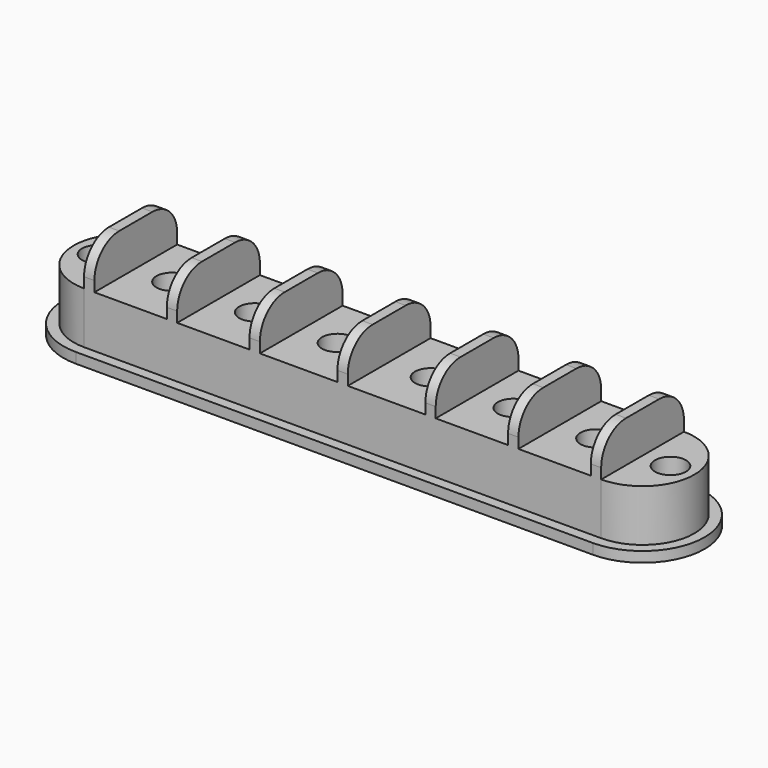
from build123d import *

# Parameters (mm, degrees)
F0_R     = 1.5
F0_W     = 1
F0_H     = 10
F0_W_2   = 7
F0_W_3   = 7.5
F1_DEPTH = 5
F2_DEPTH = 9
F3_R     = 3
F5_DEPTH = 2.4
F6_R     = 1.5
F7_DEPTH = 1


with BuildPart() as f1:
    # F0 (on Top) → F1 (new body)
    with BuildSketch(Plane.XY):
        with BuildLine():
            Line((25, 5), (25, -5))
            ThreePointArc((25, -5), (30, 0), (25, 5))
        make_face()
        with Locations((27.7011040598, 0)):
            Circle(F0_R, mode=Mode.SUBTRACT)
        with Locations((24.5, 0)):
            Rectangle(F0_W, F0_H)
        with Locations((20.5, 0)):
            Rectangle(F0_W_2, F0_H)
        with Locations((20.5, 0)):
            Circle(F0_R, mode=Mode.SUBTRACT)
        with Locations((16.5, 0)):
            Rectangle(F0_W, F0_H)
        with Locations((12.5, 0)):
            Rectangle(F0_W_2, F0_H)
        with Locations((12.5, 0)):
            Circle(F0_R, mode=Mode.SUBTRACT)
        with Locations((8.5, 0)):
            Rectangle(F0_W, F0_H)
        with Locations((4.25, 0)):
            Rectangle(F0_W_3, F0_H)
        with Locations((4.5, 0)):
            Circle(F0_R, mode=Mode.SUBTRACT)
        Rectangle(F0_W, F0_H)
        with Locations((-4.25, 0)):
            Rectangle(F0_W_3, F0_H)
        with Locations((-4.5, 0)):
            Circle(F0_R, mode=Mode.SUBTRACT)
        with Locations((-8.5, 0)):
            Rectangle(F0_W, F0_H)
        with Locations((-12.5, 0)):
            Rectangle(F0_W_2, F0_H)
        with Locations((-12.5, 0)):
            Circle(F0_R, mode=Mode.SUBTRACT)
        with Locations((-16.5, 0)):
            Rectangle(F0_W, F0_H)
        with Locations((-20.5, 0)):
            Rectangle(F0_W_2, F0_H)
        with Locations((-20.5, 0)):
            Circle(F0_R, mode=Mode.SUBTRACT)
        with Locations((-24.5, 0)):
            Rectangle(F0_W, F0_H)
        with BuildLine():
            ThreePointArc((-25, 5), (-30, 0), (-25, -5))
            Line((-25, -5), (-25, 5))
        make_face()
        with Locations((-27.7011040598, 0)):
            Circle(F0_R, mode=Mode.SUBTRACT)
    extrude(amount=F1_DEPTH)

    # F0 (on Top) → F2 (join)
    with BuildSketch(Plane.XY):
        with Locations((-24.5, 0)):
            Rectangle(F0_W, F0_H)
        with Locations((-16.5, 0)):
            Rectangle(F0_W, F0_H)
        with Locations((-8.5, 0)):
            Rectangle(F0_W, F0_H)
        Rectangle(F0_W, F0_H)
        with Locations((8.5, 0)):
            Rectangle(F0_W, F0_H)
        with Locations((16.5, 0)):
            Rectangle(F0_W, F0_H)
        with Locations((24.5, 0)):
            Rectangle(F0_W, F0_H)
    extrude(amount=F2_DEPTH)

    # F3
    f3_edges = [f1.edges().sort_by_distance(p)[0] for p in [
        (-24.5, -5, 9),
        (-16.5, -5, 9),
        (-8.5, -5, 9),
        (0, -5, 9),
        (8.5, -5, 9),
        (16.5, -5, 9),
        (24.5, -5, 9),
        (24.5, 5, 9),
        (16.5, 5, 9),
        (8.5, 5, 9),
        (0, 5, 9),
        (-8.5, 5, 9),
        (-16.5, 5, 9),
        (-24.5, 5, 9),
    ]]
    fillet(f3_edges, radius=F3_R)

    # F4 (on face) → F5 (cut)
    with BuildSketch(Plane(origin=(0, 0, 0), x_dir=(1, 0, 0), z_dir=(0, 0, -1))):
        Polygon((-20.4367463733, -3.1747964206), (-17.7189188346, -1.5326189627), (-17.7821724613, 1.6421774579), (-20.5632536267, 3.1747964206), (-23.2810811654, 1.5326189627), (-23.2178275387, -1.6421774579), align=None)
        Polygon((-12.5275420892, -3.175307035), (-9.7638744875, -1.6115056665), (-9.7363323982, 1.5638013686), (-12.4724579108, 3.175307035), (-15.2361255125, 1.6115056665), (-15.2636676018, -1.5638013686), align=None)
        Polygon((-4.5275420892, -3.175307035), (-1.7638744875, -1.6115056665), (-1.7363323982, 1.5638013686), (-4.4724579108, 3.175307035), (-7.2361255125, 1.6115056665), (-7.2636676018, -1.5638013686), align=None)
        Polygon((23.2178275387, -1.6421774579), (23.2810811654, 1.5326189627), (20.5632536267, 3.1747964206), (17.7821724613, 1.6421774579), (17.7189188346, -1.5326189627), (20.4367463733, -3.1747964206), align=None)
        Polygon((15.2636676018, -1.5638013686), (15.2361255125, 1.6115056665), (12.4724579108, 3.175307035), (9.7363323982, 1.5638013686), (9.7638744875, -1.6115056665), (12.5275420892, -3.175307035), align=None)
        Polygon((7.2636676018, -1.5638013686), (7.2361255125, 1.6115056665), (4.4724579108, 3.175307035), (1.7363323982, 1.5638013686), (1.7638744875, -1.6115056665), (4.5275420892, -3.175307035), align=None)
    extrude(amount=-F5_DEPTH, mode=Mode.SUBTRACT)


with BuildPart() as f7:
    # F6 (on face) → F7 (new body)
    with BuildSketch(Plane(origin=(0, 0, 0), x_dir=(1, 0, 0), z_dir=(0, 0, -1))):
        with BuildLine():
            ThreePointArc((25, -6), (31, 0), (25, 6))
            Line((25, 6), (-25, 6))
            ThreePointArc((-25, 6), (-31, 0), (-25, -6))
            Line((-25, -6), (25, -6))
        make_face()
        with Locations((-27.7011040598, 0)):
            Circle(F6_R, mode=Mode.SUBTRACT)
        with Locations((27.7011040598, 0)):
            Circle(F6_R, mode=Mode.SUBTRACT)
    extrude(amount=F7_DEPTH)


solid = Compound([f1.part, f7.part])
